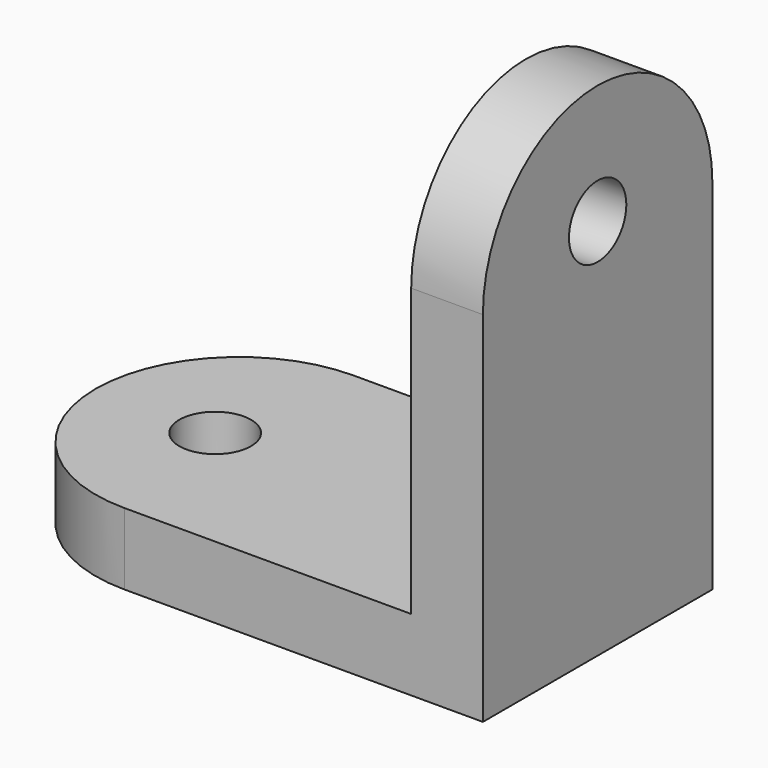
from build123d import *

# Parameters (mm, degrees)
F0_R     = 1.5
F2_DEPTH = 3
F1_R     = 1.5
F3_DEPTH = 3


with BuildPart() as f2:
    # F0 (on Top) → F2 (new body)
    with BuildSketch(Plane.XY):
        with BuildLine():
            Line((0, 0), (-15, 0))
            ThreePointArc((-15, 0), (-21, -6), (-15, -12))
            Line((-15, -12), (0, -12))
            Line((0, -12), (0, 0))
        make_face()
        with Locations((-16, -6)):
            Circle(F0_R, mode=Mode.SUBTRACT)
    extrude(amount=F2_DEPTH)

    # F1 (on Right) → F3 (join)
    with BuildSketch(Plane.YZ):
        with BuildLine():
            Line((-12, 0), (0, 0))
            Line((0, 0), (0, 15))
            ThreePointArc((0, 15), (-6, 21), (-12, 15))
            Line((-12, 15), (-12, 0))
        make_face()
        with Locations((-6, 16)):
            Circle(F1_R, mode=Mode.SUBTRACT)
    extrude(amount=-F3_DEPTH)


solid = f2.part
